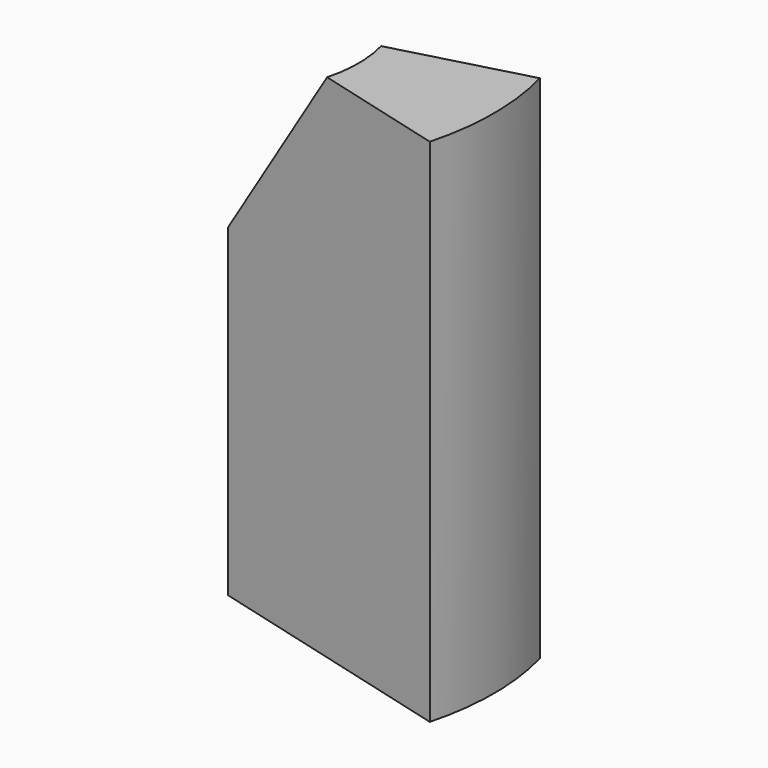
from build123d import *

# Parameters (mm, degrees)
F1_ANGLE_BACK = 15
F1_ANGLE      = 30


with BuildPart() as f1:
    # F0 (on Front) → F1 (revolve)
    with BuildSketch(Plane.XZ, mode=Mode.PRIVATE) as f1_sk:
        Polygon((0, 44.0187379718), (0, 0), (36.085691303, 0), (36.085691303, 69.3657845259), (17.7042372525, 69.3657845259), align=None)
    revolve(f1_sk.sketch.rotate(Axis((0, 0, 22.0093689859), (0, 0, 1)), -F1_ANGLE_BACK), axis=Axis((0, 0, 22.0093689859), (0, 0, 1)), revolution_arc=F1_ANGLE)


solid = f1.part
